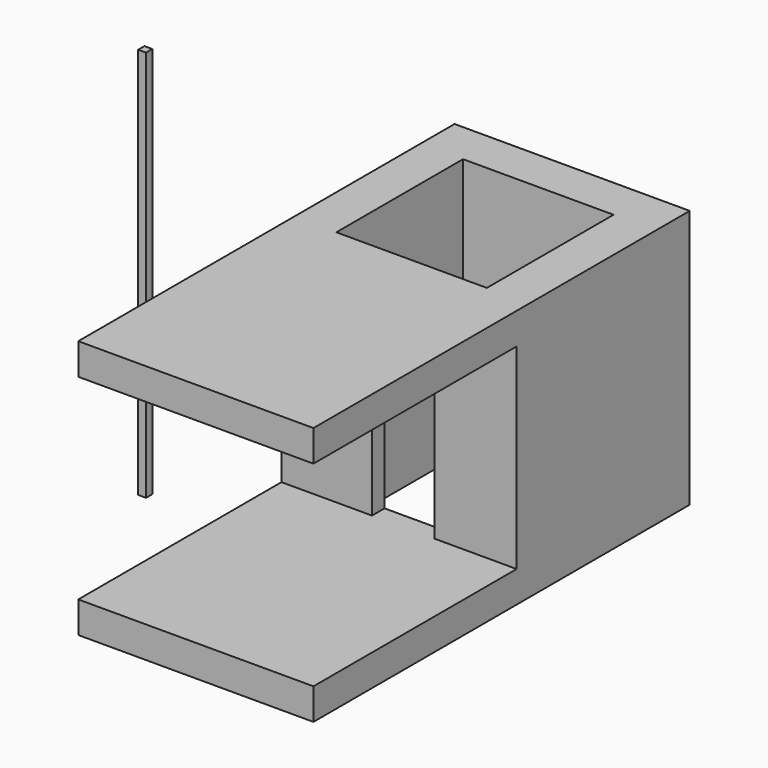
from build123d import *

# Parameters (mm, degrees)
F0_W     = 3000
F0_H     = 6000
F0_W_2   = 1920
F0_H_2   = 2020
F1_DEPTH = 400
F3_DEPTH = 2000
F4_W     = 3000
F4_H     = 2760
F4_W_2   = 1920
F4_H_2   = 2020
F5_DEPTH = 500
F6_W     = 1920
F6_H     = 2020
F7_DEPTH = 400
F8_W     = 100
F8_H     = 100
F9_DEPTH = 5000


with BuildPart() as f1:
    # F0 (on Top) → F1 (new body)
    with BuildSketch(Plane.XY):
        with Locations((2.540326, 1552.932938)):
            Rectangle(F0_W, F0_H)
        with Locations((2.540326, 3002.932938)):
            Rectangle(F0_W_2, F0_H_2, mode=Mode.SUBTRACT)
    extrude(amount=F1_DEPTH)

    # F2 (on face) → F3 (join)
    with BuildSketch(Plane.XY.offset(400)):
        Polygon((1502.540326, 4552.932938), (-1497.459674, 4552.932938), (-1497.459674, 1792.932938), (-342.459674, 1792.932938), (-342.459674, 1992.932938), (-957.459674, 1992.932938), (-957.459674, 4012.932938), (962.540326, 4012.932938), (962.540326, 1992.932938), (457.540326, 1992.932938), (457.540326, 1792.932938), (1502.540326, 1792.932938), align=None)
    extrude(amount=F3_DEPTH)

    # F4 (on face) → F5 (join)
    with BuildSketch(Plane.XY.offset(2400)):
        with Locations((2.540326, 3172.932938)):
            Rectangle(F4_W, F4_H)
        with Locations((2.540326, 3002.932938)):
            Rectangle(F4_W_2, F4_H_2, mode=Mode.SUBTRACT)
    extrude(amount=F5_DEPTH)

    # F6 (on face) → F7 (join)
    with BuildSketch(Plane.XY.offset(2900)):
        Polygon((1502.540326, 4552.932938), (-1497.459674, 4552.932938), (-1497.459674, 1792.932938), (-1497.459674, -1447.067062), (1502.540326, -1447.067062), (1502.540326, 1792.932938), align=None)
        with Locations((2.540326, 3002.932938)):
            Rectangle(F6_W, F6_H, mode=Mode.SUBTRACT)
    extrude(amount=F7_DEPTH)


with BuildPart() as f9:
    # F8 (on Top) → F9 (new body)
    with BuildSketch(Plane.XY):
        with Locations((-2869.361162, 1335.457803)):
            Rectangle(F8_W, F8_H)
    extrude(amount=F9_DEPTH)


solid = Compound([f1.part, f9.part])
